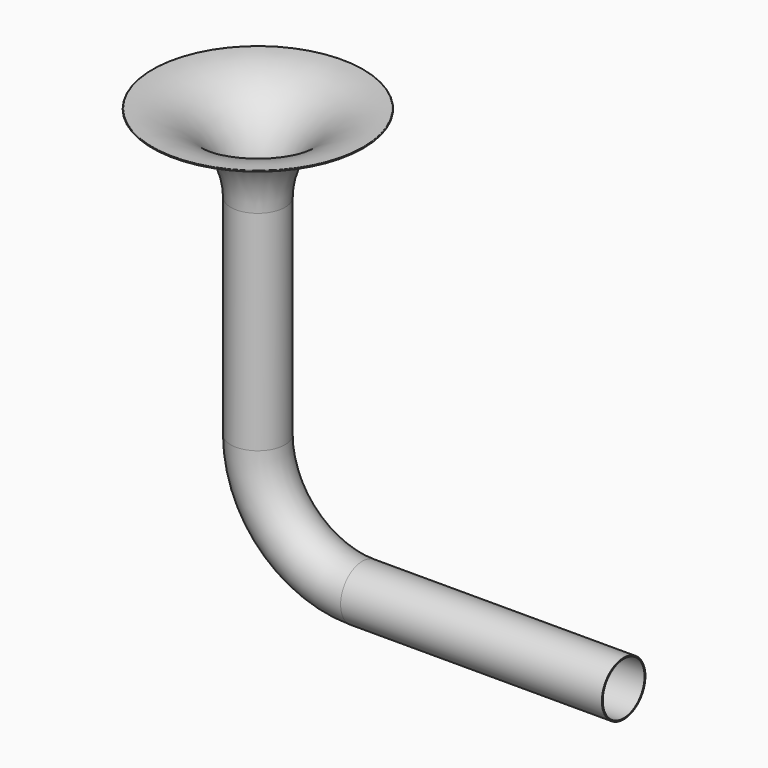
from build123d import *

# Parameters (mm, degrees)
F3_R   = 158.75
F3_R_2 = 152.4


with BuildPart() as f4:
    # F4: sweep along a path in F0
    with BuildLine(Plane.XZ) as f4_path:
        ThreePointArc((0, 609.6), (178.547706, 178.547706), (609.6, 0))
        Line((609.6, 0), (2133.6, 0))
    # F3 (on offset) → F4 (sweep)
    with BuildSketch(Plane.XY.offset(609.6)):
        Circle(F3_R)
        Circle(F3_R_2, mode=Mode.SUBTRACT)
    sweep(path=f4_path.line)


with BuildPart() as f5:
    # F1 (on Front) → F5 (revolve)
    with BuildSketch(Plane.XZ):
        with BuildLine():
            Line((152.4, 1828.8), (152.4, 609.6))
            Line((152.4, 609.6), (158.75, 609.6))
            Line((158.75, 609.6), (158.75, 1828.8))
            ThreePointArc((158.75, 1828.8), (291.965066, 2148.759015), (612.886726, 2279.63802))
            ThreePointArc((612.886726, 2279.63802), (616.084787, 2282.789789), (612.933017, 2285.987851))
            ThreePointArc((612.933017, 2285.987851), (287.491335, 2153.26548), (152.4, 1828.8))
        make_face()
    revolve(axis=Axis((0, 0, 2057.4), (0, 0, 1)))


solid = Compound([f4.part, f5.part])
